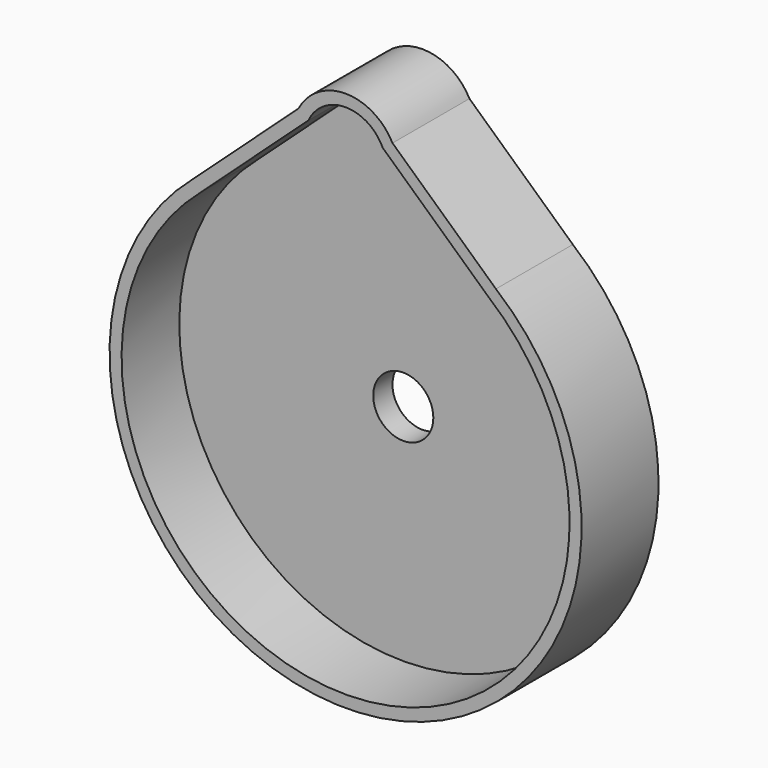
from build123d import *

# Parameters (mm, degrees)
F0_R     = 25
F1_DEPTH = 20
F2_START = 20
F2_DEPTH = 60


with BuildPart() as f1:
    # F0 (on Front) → F1 (new body)
    with BuildSketch(Plane.XZ):
        with BuildLine():
            Line((-39.0416272934, 230.1646211462), (-127.893426815, 148.9686369788))
            ThreePointArc((-127.893426815, 148.9686369788), (1.8429896211, -196.3287722547), (125.0743198764, 151.3433114916))
            Line((125.0743198764, 151.3433114916), (39.0416272934, 230.1646211462))
            ThreePointArc((39.0416272934, 230.1646211462), (0, 253.7630542683), (-39.0416272934, 230.1646211462))
        make_face()
        with BuildLine():
            ThreePointArc((118.5096726545, 143.7953144771), (1.7986083479, -186.3287417074), (-121.2634079203, 141.480814522))
            Line((-121.2634079203, 141.480814522), (-30.9161716853, 224.0433827807))
            ThreePointArc((-30.9161716853, 224.0433827807), (-0.0030944403, 243.7630541279), (30.9135618095, 224.0489944464))
            Line((30.9135618095, 224.0489944464), (118.5096726545, 143.7953144771))
        make_face(mode=Mode.SUBTRACT)
        with BuildLine():
            Line((-30.9161716853, 224.0433827807), (-121.2634079203, 141.480814522))
            ThreePointArc((-121.2634079203, 141.480814522), (1.7986083479, -186.3287417074), (118.5096726545, 143.7953144771))
            Line((118.5096726545, 143.7953144771), (30.9135618095, 224.0489944464))
            ThreePointArc((30.9135618095, 224.0489944464), (-0.0030944403, 243.7630541279), (-30.9161716853, 224.0433827807))
        make_face()
        Circle(F0_R, mode=Mode.SUBTRACT)
    extrude(amount=F1_DEPTH)

    # F0 (on Front) → F2 (join)
    with BuildSketch(Plane.XZ.offset(F2_START)):
        with BuildLine():
            Line((-39.0416272934, 230.1646211462), (-127.893426815, 148.9686369788))
            ThreePointArc((-127.893426815, 148.9686369788), (1.8429896211, -196.3287722547), (125.0743198764, 151.3433114916))
            Line((125.0743198764, 151.3433114916), (39.0416272934, 230.1646211462))
            ThreePointArc((39.0416272934, 230.1646211462), (0, 253.7630542683), (-39.0416272934, 230.1646211462))
        make_face()
        with BuildLine():
            ThreePointArc((118.5096726545, 143.7953144771), (1.7986083479, -186.3287417074), (-121.2634079203, 141.480814522))
            Line((-121.2634079203, 141.480814522), (-30.9161716853, 224.0433827807))
            ThreePointArc((-30.9161716853, 224.0433827807), (-0.0030944403, 243.7630541279), (30.9135618095, 224.0489944464))
            Line((30.9135618095, 224.0489944464), (118.5096726545, 143.7953144771))
        make_face(mode=Mode.SUBTRACT)
    extrude(amount=F2_DEPTH)


solid = f1.part
